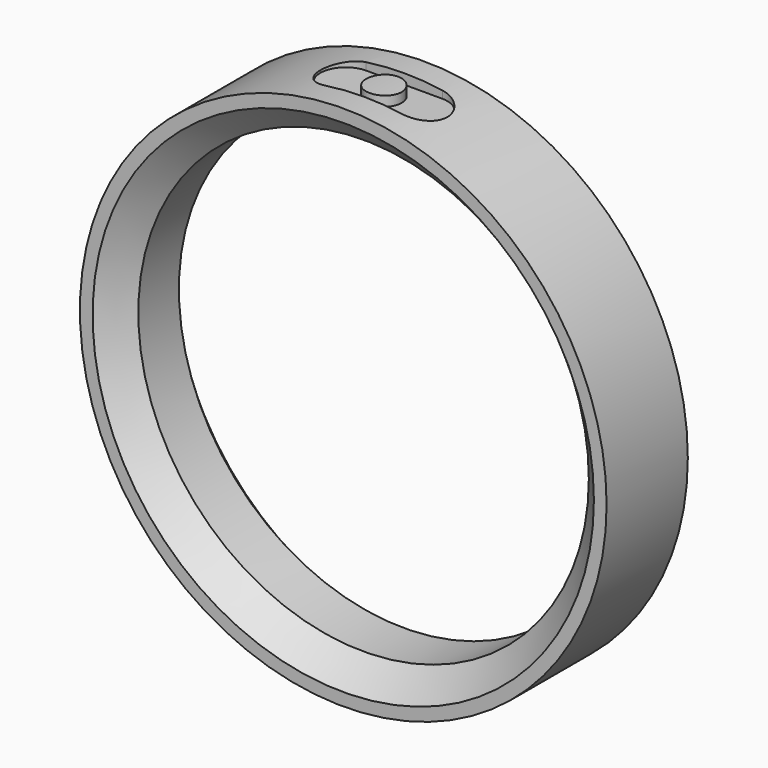
from build123d import *

# Parameters (mm, degrees)
F0_R          = 10.375
F0_R_2        = 8.875
F1_DEPTH      = 2
F1_DEPTH_BACK = 2
F2_SIZE       = 1
F4_START      = 9.975
F3_R          = 0.7
F4_DEPTH      = 15.025


with BuildPart() as f1:
    # F0 (on Front) → F1 (new body, two sides)
    with BuildSketch(Plane.XZ) as f1_sk:
        Circle(F0_R)
        Circle(F0_R_2, mode=Mode.SUBTRACT)
    extrude(amount=F1_DEPTH)
    extrude(f1_sk.sketch, amount=-F1_DEPTH_BACK)

    # F2
    f2_edges = [f1.edges().sort_by_distance(p)[0] for p in [
        (-8.875, -2, 0),
        (-8.875, 2, 0),
    ]]
    chamfer(f2_edges, length=F2_SIZE)

    # F3 (on Top) → F4 (cut)
    with BuildSketch(Plane.XY.offset(F4_START)):
        with BuildLine():
            Line((-1.5, -1), (1.5, -1))
            ThreePointArc((1.5, -1), (2.2071067812, -0.7071067812), (2.5, 0))
            ThreePointArc((2.5, 0), (2.2071067812, 0.7071067812), (1.5, 1))
            Line((1.5, 1), (-1.5, 1))
            ThreePointArc((-1.5, 1), (-2.2071067812, 0.7071067812), (-2.5, 0))
            ThreePointArc((-2.5, 0), (-2.2071067812, -0.7071067812), (-1.5, -1))
        make_face()
        Circle(F3_R, mode=Mode.SUBTRACT)
    extrude(amount=F4_DEPTH, mode=Mode.SUBTRACT)


solid = f1.part
